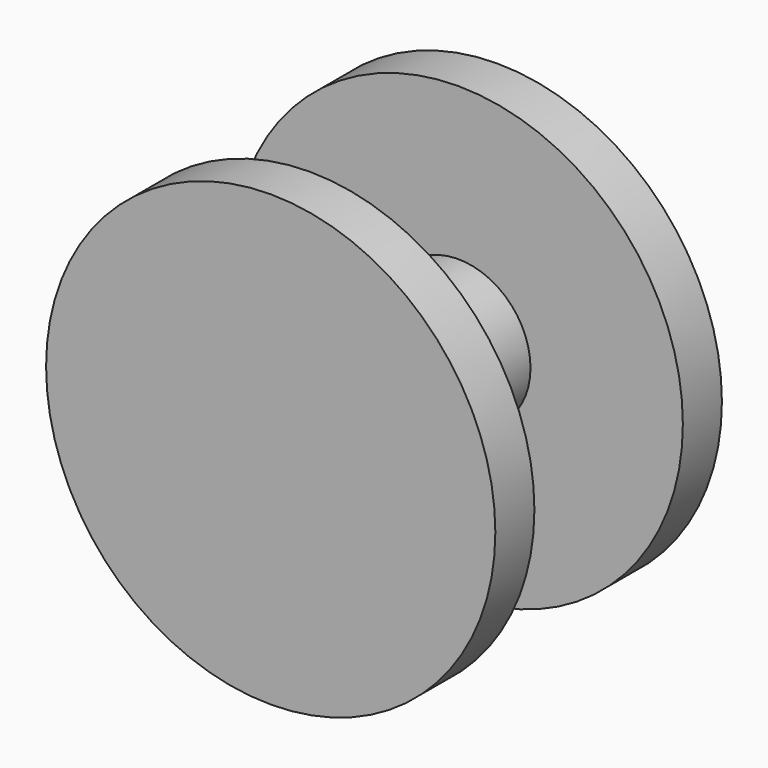
from build123d import *

# Parameters (mm, degrees)
F0_W = 2.5
F0_H = 2


with BuildPart() as f1:
    # F0 (on Top) → F1 (revolve)
    with BuildSketch(Plane.XY):
        with Locations((1.25, 0.25)):
            Rectangle(F0_W, F0_H)
        Polygon((0, 7.25), (0, 1.25), (2.5, 1.25), (3.7, 1.25), (3.7, 4.75), (11.5, 4.75), (11.5, 7.25), align=None)
    revolve(axis=Axis((0, 1.1456771065, 0), (0, 1, 0)))


with BuildPart() as f2:
    # F0 (on Top) → F2 (revolve)
    with BuildSketch(Plane.XY):
        with Locations((1.25, -1.75)):
            Rectangle(F0_W, F0_H)
        Polygon((2.5, -2.75), (0, -2.75), (0, -7.25), (11.5, -7.25), (11.5, -4.75), (3.7, -4.75), (3.7, -2.75), align=None)
    revolve(axis=Axis((0, 1.1456771065, 0), (0, 1, 0)))


solid = Compound([f1.part, f2.part])
